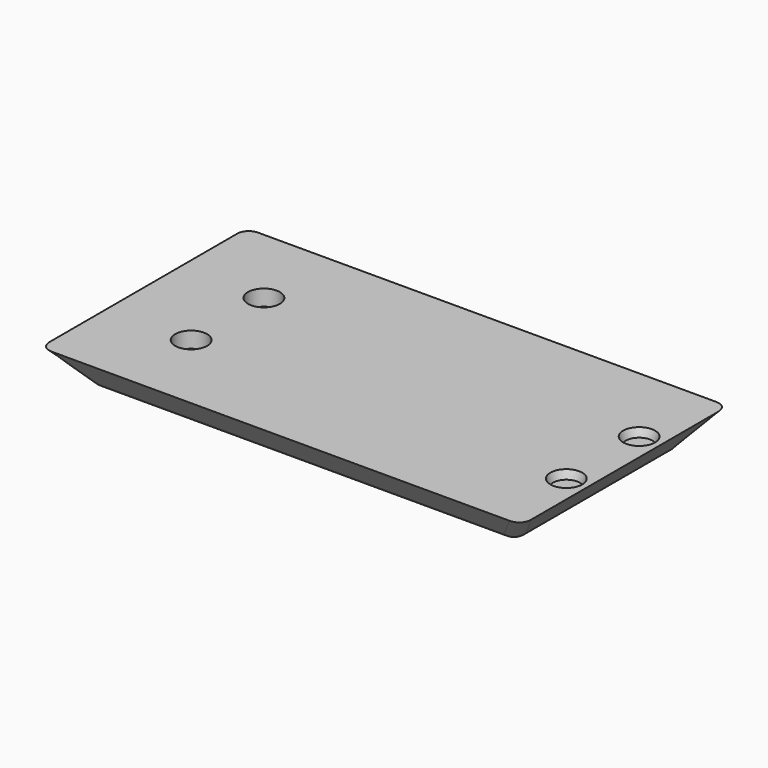
from build123d import *

# Parameters (mm, degrees)
SKETCH011_W     = 60.3
SKETCH011_H     = 32.3
PAD003_DEPTH    = 4.5
PAD003_TAPER    = 40
FILLET001_R     = 2
PAD004_DEPTH    = 0.5
PAD005_DEPTH    = 0.4
SKETCH014_R     = 2
POCKET008_DEPTH = 2
SKETCH015_R     = 2
POCKET009_DEPTH = 1
POCKET009_TAPER = 17.5


with BuildPart() as part:
    # Sketch011 → Pad003 (new body)
    with BuildSketch(Plane.XY):
        with Locations((-2.81, -16.15)):
            Rectangle(SKETCH011_W, SKETCH011_H)
    extrude(amount=-PAD003_DEPTH, taper=PAD003_TAPER)

    # Fillet001
    fillet001_edges = [part.edges().sort_by_distance(p)[0] for p in [
        (-29.184052, -16.15, -4.5),
        (-31.072026, -1.887974, -2.25),
        (-2.81, -3.775948, -4.5),
        (-2.81, -28.524052, -4.5),
        (25.452026, -1.887974, -2.25),
        (23.564052, -16.15, -4.5),
        (25.452026, -30.412026, -2.25),
        (-31.072026, -30.412026, -2.25),
    ]]
    fillet(fillet001_edges, radius=FILLET001_R)

    # Sketch012 (on Face13 of Fillet001) → Pad004 (join)
    with BuildSketch(Plane(origin=(0, 0, -4.5), x_dir=(1, 0, 0), z_dir=(0, 0, -1))):
        with BuildLine():
            Line((4.381436, 25.091436), (4.381436, 21.591436))
            ThreePointArc((4.381436, 21.591436), (4.527883, 21.237883), (4.881436, 21.091436))
            Line((4.881436, 21.091436), (16.631436, 21.091436))
            ThreePointArc((16.631436, 21.091436), (16.98499, 21.237883), (17.131436, 21.591436))
            Line((17.131436, 21.591436), (17.131436, 25.091436))
            ThreePointArc((17.131436, 25.091436), (16.98499, 25.44499), (16.631436, 25.591436))
            Line((16.631436, 25.591436), (4.881436, 25.591436))
            ThreePointArc((4.881436, 25.591436), (4.527883, 25.44499), (4.381436, 25.091436))
        make_face()
        with BuildLine():
            Line((4.381436, 10.708564), (4.381436, 7.208564))
            ThreePointArc((4.381436, 7.208564), (4.527883, 6.85501), (4.881436, 6.708564))
            Line((4.881436, 6.708564), (16.631436, 6.708564))
            ThreePointArc((16.631436, 6.708564), (16.98499, 6.85501), (17.131436, 7.208564))
            Line((17.131436, 7.208564), (17.131436, 10.708564))
            ThreePointArc((17.131436, 10.708564), (16.98499, 11.062117), (16.631436, 11.208564))
            Line((16.631436, 11.208564), (4.881436, 11.208564))
            ThreePointArc((4.881436, 11.208564), (4.527883, 11.062117), (4.381436, 10.708564))
        make_face()
        with BuildLine():
            Line((-27.351436, 22.025), (-27.351436, 10.275))
            ThreePointArc((-27.351436, 10.275), (-27.20499, 9.921447), (-26.851436, 9.775))
            Line((-26.851436, 9.775), (-23.351436, 9.775))
            ThreePointArc((-23.351436, 9.775), (-22.997883, 9.921447), (-22.851436, 10.275))
            Line((-22.851436, 10.275), (-22.851436, 22.025))
            ThreePointArc((-22.851436, 22.025), (-22.997883, 22.378553), (-23.351436, 22.525))
            Line((-23.351436, 22.525), (-26.851436, 22.525))
            ThreePointArc((-26.851436, 22.525), (-27.20499, 22.378553), (-27.351436, 22.025))
        make_face()
    extrude(amount=PAD004_DEPTH)

    # Sketch013 (on Face45 of Pad004) → Pad005 (join)
    with BuildSketch(Plane(origin=(0, 0, -5), x_dir=(1, 0, 0), z_dir=(0, 0, -1))):
        with BuildLine():
            Line((4.781436, 24.941436), (4.781436, 21.741436))
            ThreePointArc((4.781436, 21.741436), (4.85466, 21.56466), (5.031436, 21.491436))
            Line((5.031436, 21.491436), (16.481436, 21.491436))
            ThreePointArc((16.481436, 21.491436), (16.658213, 21.56466), (16.731436, 21.741436))
            Line((16.731436, 21.741436), (16.731436, 24.941436))
            ThreePointArc((16.731436, 24.941436), (16.658213, 25.118213), (16.481436, 25.191436))
            Line((16.481436, 25.191436), (5.031436, 25.191436))
            ThreePointArc((5.031436, 25.191436), (4.85466, 25.118213), (4.781436, 24.941436))
        make_face()
        with BuildLine():
            Line((4.781436, 10.558564), (4.781436, 7.358564))
            ThreePointArc((4.781436, 7.358564), (4.85466, 7.181787), (5.031436, 7.108564))
            Line((5.031436, 7.108564), (16.481436, 7.108564))
            ThreePointArc((16.481436, 7.108564), (16.658213, 7.181787), (16.731436, 7.358564))
            Line((16.731436, 7.358564), (16.731436, 10.558564))
            ThreePointArc((16.731436, 10.558564), (16.658213, 10.73534), (16.481436, 10.808564))
            Line((16.481436, 10.808564), (5.031436, 10.808564))
            ThreePointArc((5.031436, 10.808564), (4.85466, 10.73534), (4.781436, 10.558564))
        make_face()
        with BuildLine():
            Line((-26.951436, 21.875), (-26.951436, 10.425))
            ThreePointArc((-26.951436, 10.425), (-26.878213, 10.248223), (-26.701436, 10.175))
            Line((-26.701436, 10.175), (-23.501436, 10.175))
            ThreePointArc((-23.501436, 10.175), (-23.32466, 10.248223), (-23.251436, 10.425))
            Line((-23.251436, 10.425), (-23.251436, 21.875))
            ThreePointArc((-23.251436, 21.875), (-23.32466, 22.051777), (-23.501436, 22.125))
            Line((-23.501436, 22.125), (-26.701436, 22.125))
            ThreePointArc((-26.701436, 22.125), (-26.878213, 22.051777), (-26.951436, 21.875))
        make_face()
    extrude(amount=PAD005_DEPTH)

    # Sketch014 → Pocket008 (cut)
    with BuildSketch(Plane.XY):
        with Locations((-22.41, -10.45)):
            Circle(SKETCH014_R)
        with Locations((-22.41, -21.85)):
            Circle(SKETCH014_R)
    extrude(amount=-POCKET008_DEPTH, mode=Mode.SUBTRACT)

    # Sketch015 → Pocket009 (cut)
    with BuildSketch(Plane.XY):
        with Locations((24.59, -10.45)):
            Circle(SKETCH015_R)
        with Locations((24.59, -21.85)):
            Circle(SKETCH015_R)
    extrude(amount=-POCKET009_DEPTH, taper=POCKET009_TAPER, mode=Mode.SUBTRACT)


with BuildPart() as part_1:
    # Body002 placement: moved
    add(part.part.moved(Location((0, -30.35, 0))))


solid = part_1.part
